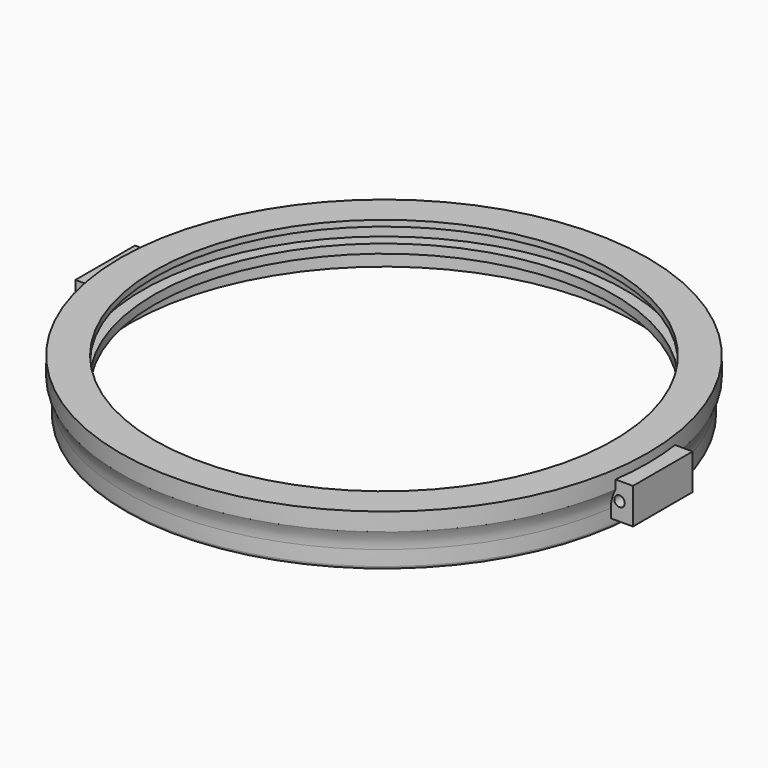
from build123d import *

# Parameters (mm, degrees)
F2_R     = 81
F3_DEPTH = 5
F4_R     = 1
F5_W     = 8
F5_H     = 12
F5_R     = 2.5
F7_DEPTH = 12.5
F6_W     = 8
F6_H     = 12
F6_R     = 1.75
F8_DEPTH = 12.5


with BuildPart() as f1:
    # F0 (on Front) → F1 (revolve)
    with BuildSketch(Plane.XZ):
        with BuildLine():
            Line((-85, -3), (-77, -3))
            Line((-77, -3), (-77, 0))
            Line((-77, 0), (-77, 7))
            Line((-77, 7), (-88.5, 7))
            Line((-88.5, 7), (-88.5, 1))
            ThreePointArc((-88.5, 1), (-87.380683, -1.907671), (-87, -5))
            Line((-87, -5), (-87, -11))
            Line((-87, -11), (-85, -11))
            Line((-85, -11), (-85, -3))
        make_face()
    revolve(axis=Axis((0, 0, -0.2651), (0, 0, 1)))

    # F2 (on Top) → F3 (cut)
    with BuildSketch(Plane.XY):
        Circle(F2_R)
    extrude(amount=F3_DEPTH, mode=Mode.SUBTRACT)

    # F4
    f4_edges = [f1.edges().sort_by_distance(p)[0] for p in [
        (87, 0, -11),
    ]]
    fillet(f4_edges, radius=F4_R)

    # F5 (on Front) → F7 (join, symmetric)
    with BuildSketch(Plane.XZ):
        with Locations((-89.5, -2)):
            Rectangle(F5_W, F5_H)
        with Locations((-89, -2)):
            Circle(F5_R, mode=Mode.SUBTRACT)
    extrude(amount=F7_DEPTH, both=True)

    # F6 (on Front) → F8 (join, symmetric)
    with BuildSketch(Plane.XZ):
        with Locations((89.5, -2)):
            Rectangle(F6_W, F6_H)
        with Locations((89, -2)):
            Circle(F6_R, mode=Mode.SUBTRACT)
    extrude(amount=F8_DEPTH, both=True)


solid = f1.part
